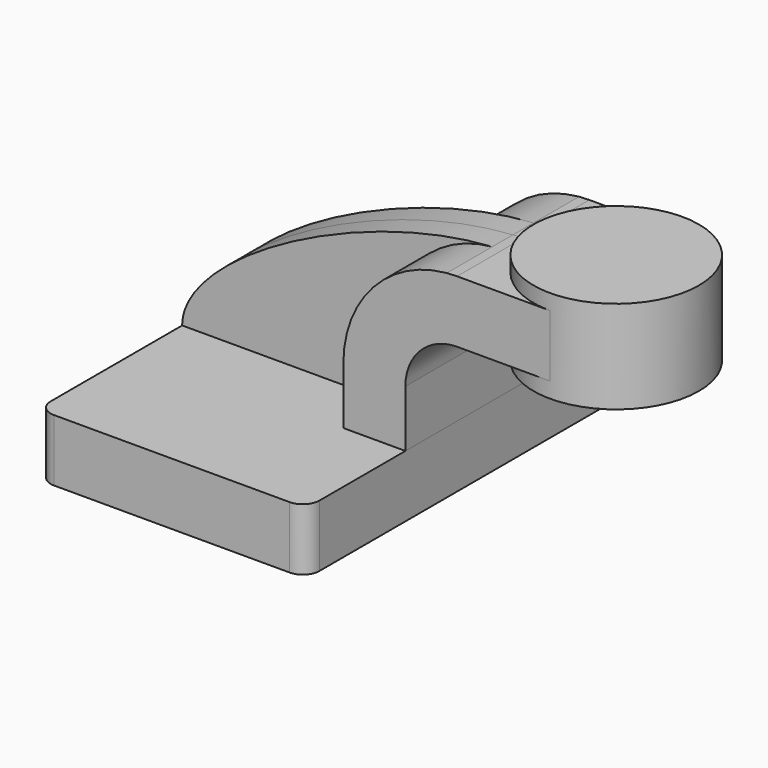
from build123d import *

# Parameters (mm, degrees)
F1_DEPTH = 63.5
F0_W     = 25.4
F0_H     = 19.05
F2_DEPTH = 25.4
F3_DEPTH = 7.9375
F5_R     = 5.08


with BuildPart() as f1:
    # F0 (on Front) → F1 (new body, symmetric)
    with BuildSketch(Plane.XZ):
        Polygon((22.225, 9.525), (-41.275, 9.525), (-41.275, -9.525), (41.275, -9.525), (41.275, 9.525), align=None)
    extrude(amount=F1_DEPTH, both=True)

    # F5
    f5_edges = [f1.edges().sort_by_distance(p)[0] for p in [
        (41.275, -63.5, 0),
        (-41.275, -63.5, 0),
        (41.275, 63.5, 0),
        (-41.275, 63.5, 0),
    ]]
    fillet(f5_edges, radius=F5_R)


with BuildPart() as f2:
    # F0 (on Front) → F2 (new body, symmetric)
    with BuildSketch(Plane.XZ):
        with BuildLine():
            Line((22.225, 27.0002), (22.225, 9.525))
            Line((22.225, 9.525), (41.275, 9.525))
            Line((41.275, 9.525), (41.275, 27.0002))
            ThreePointArc((41.275, 27.0002), (45.9246798487, 38.2255201513), (57.15, 42.8752))
            Line((57.15, 42.8752), (60.325, 42.8752))
            Line((60.325, 42.8752), (60.325, 61.9252))
            Line((60.325, 61.9252), (57.15, 61.9252))
            add(Edge.make_bspline(
                [(57.15, 61.9252), (56.1060097938, 61.8957039588), (55.0521663877, 61.8477373662), (53.9896285148, 61.7819146943)],
                knots=[0, 0, 0, 0, 2.80861323, 2.80861323, 2.80861323, 2.80861323], degree=3))
            ThreePointArc((53.9896285148, 61.7819146943), (31.3611303163, 50.5520539703), (22.225, 27.0002))
        make_face()
        with Locations((73.025, 52.4002)):
            Rectangle(F0_W, F0_H)
    extrude(amount=F2_DEPTH, both=True)


with BuildPart() as f3:
    # F0 (on Front) → F3 (new body, symmetric)
    with BuildSketch(Plane.XZ):
        with BuildLine():
            add(Edge.make_bspline(
                [(53.9896285148, 61.7819146943), (12.8684326481, 59.2345165701), (-41.275, 29.9429720473), (-41.275, 9.525)],
                knots=[2.80861323, 2.80861323, 2.80861323, 2.80861323, 111.5045361635, 111.5045361635, 111.5045361635, 111.5045361635], degree=3))
            Line((-41.275, 9.525), (22.225, 9.525))
            Line((22.225, 9.525), (22.225, 27.0002))
            ThreePointArc((22.225, 27.0002), (31.3611303163, 50.5520539703), (53.9896285148, 61.7819146943))
        make_face()
    extrude(amount=F3_DEPTH, both=True)


with BuildPart() as f4:
    # F0 (on Front) → F4 (revolve)
    with BuildSketch(Plane.XZ):
        Polygon((85.725, 66.675), (85.725, 61.9252), (85.725, 42.8752), (85.725, 38.1), (111.125, 38.1), (111.125, 66.675), align=None)
    revolve(axis=Axis((85.725, 0, 52.3875), (0, 0, 1)))


solid = Compound([f1.part, f2.part, f3.part, f4.part])
